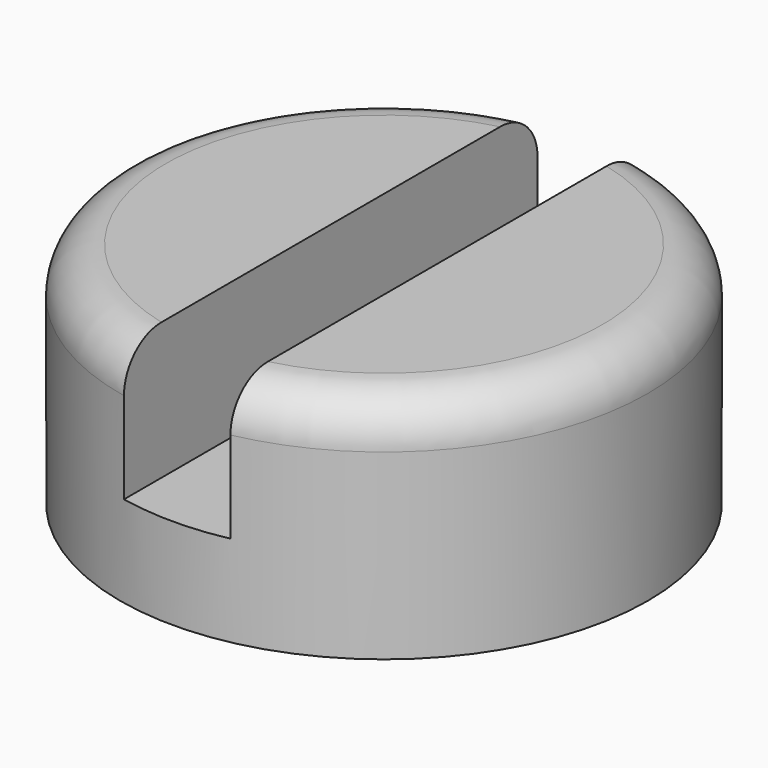
from build123d import *

# Parameters (mm, degrees)
SKETCH017_R     = 1.735
PAD008_DEPTH    = 1.5
SKETCH018_W     = 0.7
SKETCH018_H     = 4
POCKET007_DEPTH = 0.9
FILLET008_R     = 0.3


with BuildPart() as part:
    # Sketch017 → Pad008 (new body)
    with BuildSketch(Plane.XY):
        Circle(SKETCH017_R)
    extrude(amount=PAD008_DEPTH)

    # Sketch018 (on Face3 of Pad008) → Pocket007 (cut)
    with BuildSketch(Plane.XY.offset(1.5)):
        Rectangle(SKETCH018_W, SKETCH018_H)
    extrude(amount=-POCKET007_DEPTH, mode=Mode.SUBTRACT)

    # Fillet008
    fillet008_edges = [part.edges().sort_by_distance(p)[0] for p in [
        (1.344893, -1.096124, 1.5),
        (-1.735, 0, 1.5),
    ]]
    fillet(fillet008_edges, radius=FILLET008_R)


with BuildPart() as part_1:
    # Body006 placement: moved
    add(part.part.moved(Location((3.477525, 0, 6.9297))))


solid = part_1.part
